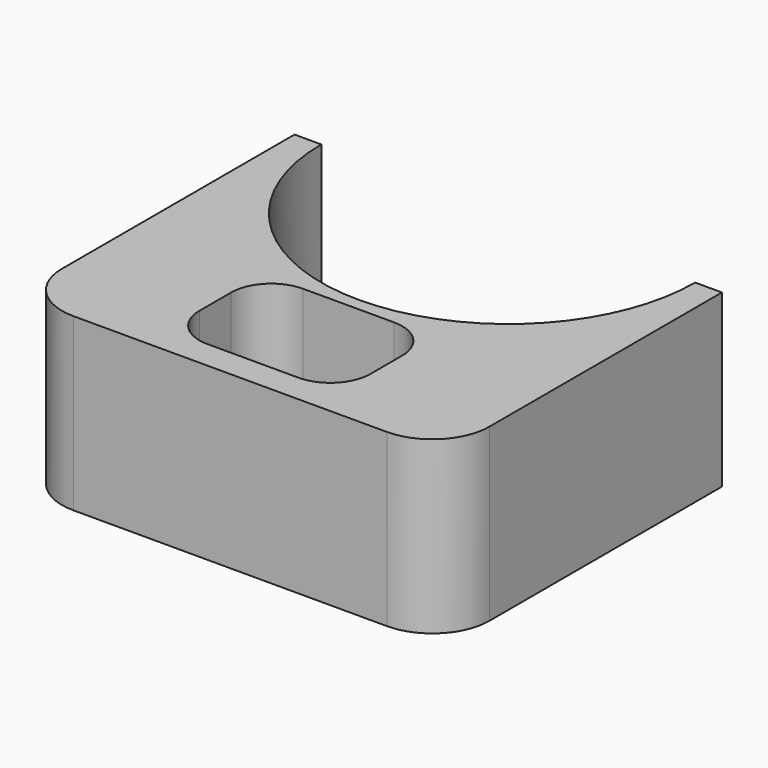
from build123d import *

# Parameters (mm, degrees)
F0_W     = 95.25
F0_H     = 77.47
F0_W_2   = 38.1
F0_H_2   = 26.67
F1_DEPTH = 38.1
F2_R     = 12.7
F3_R     = 8.89
F5_DEPTH = 32.004
F7_DEPTH = 25.4


with BuildPart() as f1:
    # F0 (on Top) → F1 (new body)
    with BuildSketch(Plane.XY):
        with Locations((0, 17.2681905271)):
            Rectangle(F0_W, F0_H)
        with Locations((0, -1.7818094729)):
            Rectangle(F0_W_2, F0_H_2, mode=Mode.SUBTRACT)
    extrude(amount=F1_DEPTH)

    # F2
    f2_edges = [f1.edges().sort_by_distance(p)[0] for p in [
        (47.625, -21.466809, 19.05),
        (-47.625, -21.466809, 19.05),
    ]]
    fillet(f2_edges, radius=F2_R)

    # F3
    f3_edges = [f1.edges().sort_by_distance(p)[0] for p in [
        (19.05, -15.116809, 19.05),
        (19.05, 11.553191, 19.05),
        (-19.05, 11.553191, 19.05),
        (-19.05, -15.116809, 19.05),
    ]]
    fillet(f3_edges, radius=F3_R)

    # F4 (on face) → F5 (cut)
    with BuildSketch(Plane.XY.offset(38.1)):
        with BuildLine():
            ThreePointArc((-41.656, 56.0031905271), (0, 14.3471905271), (41.656, 56.0031905271))
            Line((41.656, 56.0031905271), (-41.656, 56.0031905271))
        make_face()
    extrude(amount=-F5_DEPTH, mode=Mode.SUBTRACT)

    # F6 (on face) → F7 (cut)
    with BuildSketch(Plane.XY.offset(6.096)):
        with BuildLine():
            ThreePointArc((-36.83, 56.0031905271), (0, 19.1731905271), (36.83, 56.0031905271))
            Line((36.83, 56.0031905271), (-36.83, 56.0031905271))
        make_face()
    extrude(amount=-F7_DEPTH, mode=Mode.SUBTRACT)


solid = f1.part
